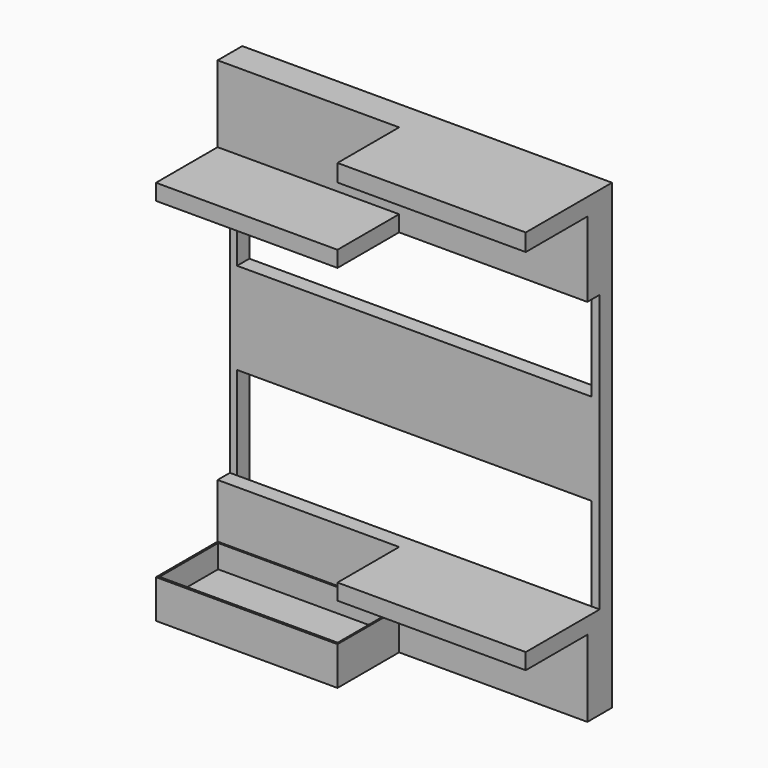
from build123d import *

# Parameters (mm, degrees)
F0_W      = 609.6
F0_H      = 762
F0_W_2    = 584.5253169537
F0_H_2    = 736.8236780167
F1_DEPTH  = 25.4
F2_W      = 584.5253169537
F2_H      = 140.0518767754
F3_DEPTH  = 25.4
F4_W      = 609.6
F4_H      = 152.9776729027
F5_DEPTH  = 25.4
F6_W      = 607.6588928699
F6_H      = 151.1828005314
F7_DEPTH  = 25.4
F8_W      = 310.3615156889
F8_H      = 26.3459533453
F9_DEPTH  = 127
F10_W     = 299.2384843111
F10_H     = 25.4
F11_DEPTH = 127
F12_W     = 299.2384843111
F12_H     = 127
F12_W_2   = 293.7446322758
F12_H_2   = 120.7347996533
F13_DEPTH = 38.1
F14_W     = 299.2384843111
F14_H     = 26.3609342495
F14_W_2   = 310.3615156889
F14_H_2   = 28.4420627674
F15_DEPTH = 127


with BuildPart() as f1:
    # F0 (on Front) → F1 (new body)
    with BuildSketch(Plane.XZ):
        with Locations((5.5615156889, 74.8699506839)):
            Rectangle(F0_W, F0_H)
        with Locations((4.7548860312, 75.109988451)):
            Rectangle(F0_W_2, F0_H_2, mode=Mode.SUBTRACT)
    extrude(amount=F1_DEPTH)

    # F2 (on face) → F3 (join)
    with BuildSketch(Plane.XZ.offset(25.4)):
        with Locations((4.7548860312, 373.4958890716)):
            Rectangle(F2_W, F2_H)
        Polygon((310.3615156889, 455.8699506839), (-299.2384843111, 455.8699506839), (-299.2384843111, 303.4699506839), (-287.5077724457, 303.4699506839), (-287.5077724457, 443.5218274593), (297.017544508, 443.5218274593), (297.017544508, 303.4699506839), (310.3615156889, 303.4699506839), align=None)
    extrude(amount=F3_DEPTH)

    # F4 (on face) → F5 (join)
    with BuildSketch(Plane.XZ.offset(25.4)):
        with Locations((5.5615156889, -229.6412128647)):
            Rectangle(F4_W, F4_H)
    extrude(amount=F5_DEPTH)

    # F6 (on Front) → F7 (join)
    with BuildSketch(Plane.XZ):
        with Locations((5.5615156889, 75.5914002657)):
            Rectangle(F6_W, F6_H)
    extrude(amount=F7_DEPTH)

    # F8 (on face) → F9 (join)
    with BuildSketch(Plane.XZ.offset(50.8)):
        with Locations((155.1807578444, -166.325353086)):
            Rectangle(F8_W, F8_H)
    extrude(amount=F9_DEPTH)

    # F10 (on face) → F11 (join)
    with BuildSketch(Plane.XZ.offset(50.8)):
        with Locations((-149.6192421556, -293.4300493161)):
            Rectangle(F10_W, F10_H)
    extrude(amount=F11_DEPTH)

    # F12 (on face) → F13 (join)
    with BuildSketch(Plane.XY.offset(-280.7300493161)):
        with Locations((-149.6192421556, -114.3)):
            Rectangle(F12_W, F12_H)
        with Locations((-149.3473903975, -113.9315422624)):
            Rectangle(F12_W_2, F12_H_2, mode=Mode.SUBTRACT)
    extrude(amount=F13_DEPTH)

    # F14 (on face) → F15 (join)
    with BuildSketch(Plane.XZ.offset(50.8)):
        with Locations((-149.6192421556, 316.6504178087)):
            Rectangle(F14_W, F14_H)
        with Locations((155.1807578444, 441.6489193003)):
            Rectangle(F14_W_2, F14_H_2)
    extrude(amount=F15_DEPTH)


solid = f1.part
